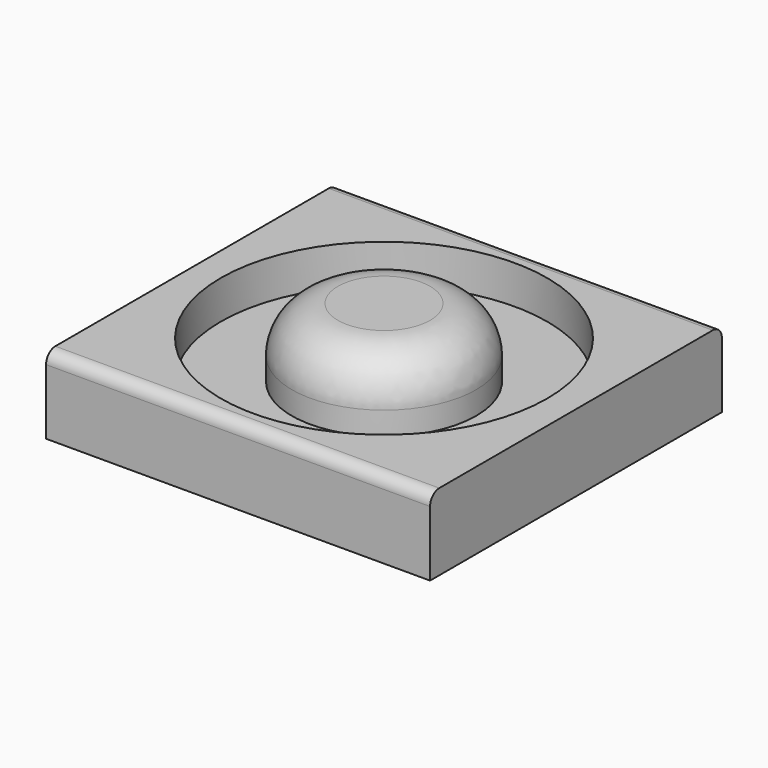
from build123d import *

# Parameters (mm, degrees)
F0_W     = 100
F0_H     = 95
F1_DEPTH = 10
F2_R     = 42.5
F2_R_2   = 24
F3_DEPTH = 10
F4_R     = 24
F4_R_2   = 14
F5_DEPTH = 8
F6_R     = 12
F7_R     = 3


with BuildPart() as f1:
    # F0 (on Top) → F1 (new body, symmetric)
    with BuildSketch(Plane.XY):
        Rectangle(F0_W, F0_H)
    extrude(amount=F1_DEPTH, both=True)

    # F2 (on face) → F3 (cut)
    with BuildSketch(Plane.XY.offset(10)):
        Circle(F2_R)
        Circle(F2_R_2, mode=Mode.SUBTRACT)
    extrude(amount=-F3_DEPTH, mode=Mode.SUBTRACT)

    # F4 (on face) → F5 (join)
    with BuildSketch(Plane.XY.offset(10)):
        Circle(F4_R)
        Circle(F4_R_2, mode=Mode.SUBTRACT)
        Circle(F4_R_2)
    extrude(amount=F5_DEPTH)

    # F6
    f6_edges = [f1.edges().sort_by_distance(p)[0] for p in [
        (-24, 0, 18),
    ]]
    fillet(f6_edges, radius=F6_R)

    # F7
    f7_edges = [f1.edges().sort_by_distance(p)[0] for p in [
        (0, 47.5, 10),
        (0, -47.5, 10),
    ]]
    fillet(f7_edges, radius=F7_R)


solid = f1.part
